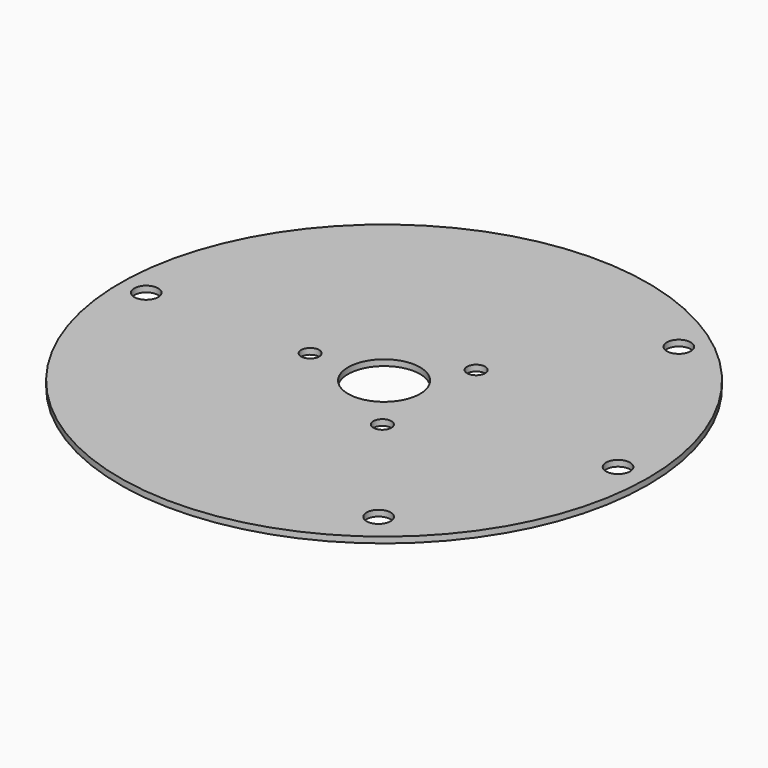
from build123d import *

# Parameters (mm, degrees)
F0_R     = 69.85
F0_R_2   = 3.175
F0_R_3   = 2.3876
F0_R_4   = 9.525
F1_DEPTH = 1.5875


with BuildPart() as f1:
    # F0 (on Top) → F1 (new body)
    with BuildSketch(Plane.XY):
        Circle(F0_R)
        with Locations((37.2177362893, -48.3359512449)):
            Circle(F0_R_2, mode=Mode.SUBTRACT)
        with Locations((11.9935217742, -15.5589354078)):
            Circle(F0_R_3, mode=Mode.SUBTRACT)
        with Locations((-62.9370883107, 0)):
            Circle(F0_R_2, mode=Mode.SUBTRACT)
        with BuildLine():
            ThreePointArc((-17.2174242196, -0.4251102419), (-21.941670772, 0), (-17.2174242196, 0.4251102419))
            ThreePointArc((-17.2174242196, 0.4251102419), (-7.4928399183, 15.5073455315), (10.3667352346, 13.7532256599))
            ThreePointArc((10.3667352346, 13.7532256599), (10.8792419108, 17.7507657799), (14.2807727585, 15.5891511065))
            ThreePointArc((14.2807727585, 15.5891511065), (12.9967533853, 13.4719020517), (10.5257521853, 13.6319094924))
            ThreePointArc((10.5257521853, 13.6319094924), (15.4580397889, 7.594038541), (17.2226715545, 0))
            ThreePointArc((17.2226715545, 0), (0.2125713129, -17.2213596708), (-17.2174242196, -0.4251102419))
        make_face(mode=Mode.SUBTRACT)
        with Locations((61.9125, 0)):
            Circle(F0_R_2, mode=Mode.SUBTRACT)
        with Locations((38.1043638868, 49.8546358273)):
            Circle(F0_R_2, mode=Mode.SUBTRACT)
        with BuildLine():
            ThreePointArc((-17.2174242196, 0.4251102419), (-17.1887534152, 0.2134139429), (-17.179170772, 0))
            ThreePointArc((-17.179170772, 0), (-17.1887534152, -0.2134139429), (-17.2174242196, -0.4251102419))
            ThreePointArc((-17.2174242196, -0.4251102419), (0.2125713129, -17.2213596708), (17.2226715545, 0))
            ThreePointArc((17.2226715545, 0), (15.4580397889, 7.594038541), (10.5257521853, 13.6319094924))
            ThreePointArc((10.5257521853, 13.6319094924), (10.4449728156, 13.6909017326), (10.3667352346, 13.7532256599))
            ThreePointArc((10.3667352346, 13.7532256599), (-7.4928399183, 15.5073455315), (-17.2174242196, 0.4251102419))
        make_face()
        Circle(F0_R_4, mode=Mode.SUBTRACT)
    extrude(amount=F1_DEPTH)


solid = f1.part
